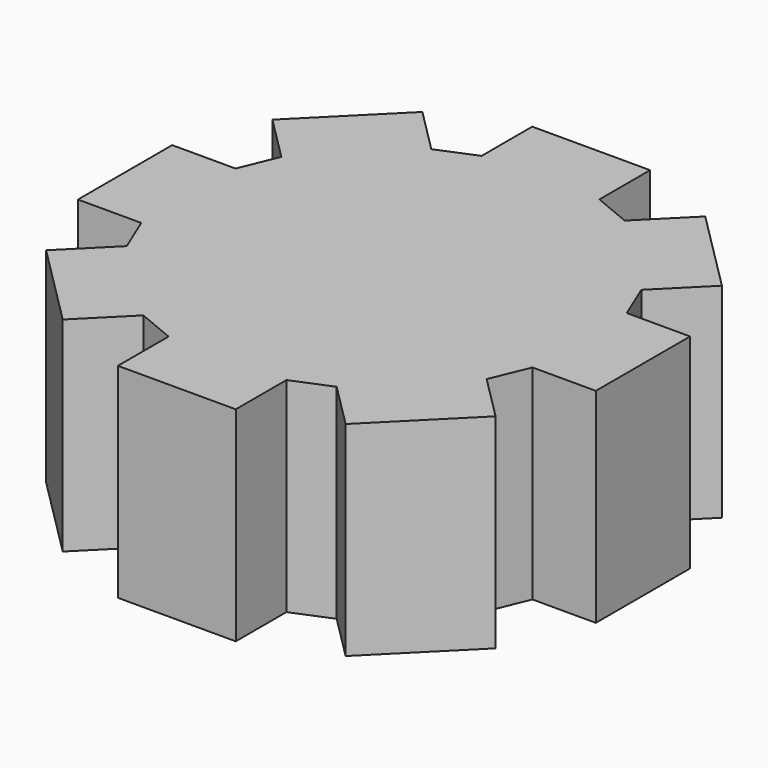
from build123d import *

# Parameters (mm, degrees)
PAD_DEPTH = 10


with BuildPart() as part:
    # Sketch → Pad (new body)
    with BuildSketch(Plane.XY):
        Polygon((0, 12.676114), (2.883773, 12.676114), (2.883773, 9.575169), (4.731532, 8.809802), (6.924231, 11.002501), (11.002501, 6.924231), (8.809802, 4.731532), (9.575169, 2.883773), (12.676114, 2.883773), (12.676114, 0), (12.676114, -2.883773), (9.575169, -2.883773), (8.809802, -4.731532), (11.002501, -6.924231), (6.924231, -11.002501), (4.731532, -8.809802), (2.883773, -9.575169), (2.883773, -12.676114), (0, -12.676114), (-2.883773, -12.676114), (-2.883773, -9.575169), (-4.731532, -8.809802), (-6.924231, -11.002501), (-11.002501, -6.924231), (-8.809802, -4.731532), (-9.575169, -2.883773), (-12.676114, -2.883773), (-12.676114, 0), (-12.676114, 2.883773), (-9.575169, 2.883773), (-8.809802, 4.731532), (-11.002501, 6.924231), (-6.924231, 11.002501), (-4.731532, 8.809802), (-2.883773, 9.575169), (-2.883773, 12.676114), align=None)
    extrude(amount=PAD_DEPTH)


solid = part.part
